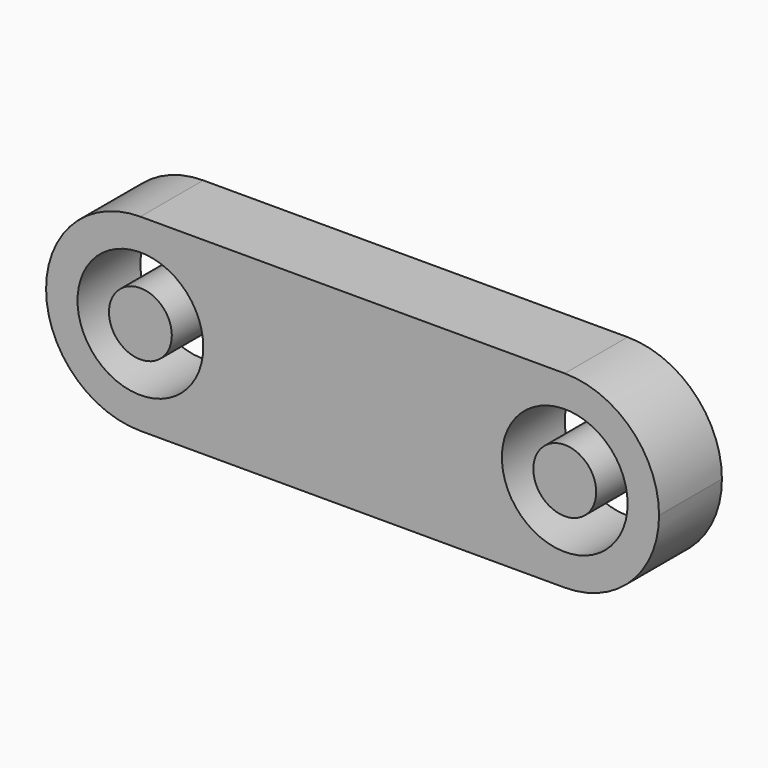
from build123d import *

# Parameters (mm, degrees)
F1_DEPTH = 5
F2_R     = 4
F2_R_2   = 2
F3_DEPTH = 25


with BuildPart() as f1:
    # F0 (on Front) → F1 (new body)
    with BuildSketch(Plane.XZ):
        with BuildLine():
            ThreePointArc((-15, -6), (-10.757359, -4.242641), (-9, 0))
            ThreePointArc((-9, 0), (-10.757359, 4.242641), (-15, 6))
            ThreePointArc((-15, 6), (-21, 0), (-15, -6))
        make_face()
        with BuildLine():
            ThreePointArc((-15, 6), (-10.757359, 4.242641), (-9, 0))
            ThreePointArc((-9, 0), (-10.757359, -4.242641), (-15, -6))
            Line((-15, -6), (12, -6))
            ThreePointArc((12, -6), (6, 0), (12, 6))
            Line((12, 6), (-15, 6))
        make_face()
        with BuildLine():
            ThreePointArc((18, 0), (16.242641, 4.242641), (12, 6))
            ThreePointArc((12, 6), (6, 0), (12, -6))
            ThreePointArc((12, -6), (16.242641, -4.242641), (18, 0))
        make_face()
    extrude(amount=F1_DEPTH)

    # F2 (on face) → F3 (cut)
    with BuildSketch(Plane.XZ.offset(5)):
        with Locations((-15, 0)):
            Circle(F2_R)
        with Locations((-15, 0)):
            Circle(F2_R_2, mode=Mode.SUBTRACT)
        with Locations((12, 0)):
            Circle(F2_R)
        with Locations((12, 0)):
            Circle(F2_R_2, mode=Mode.SUBTRACT)
    extrude(amount=-F3_DEPTH, mode=Mode.SUBTRACT)


solid = f1.part
